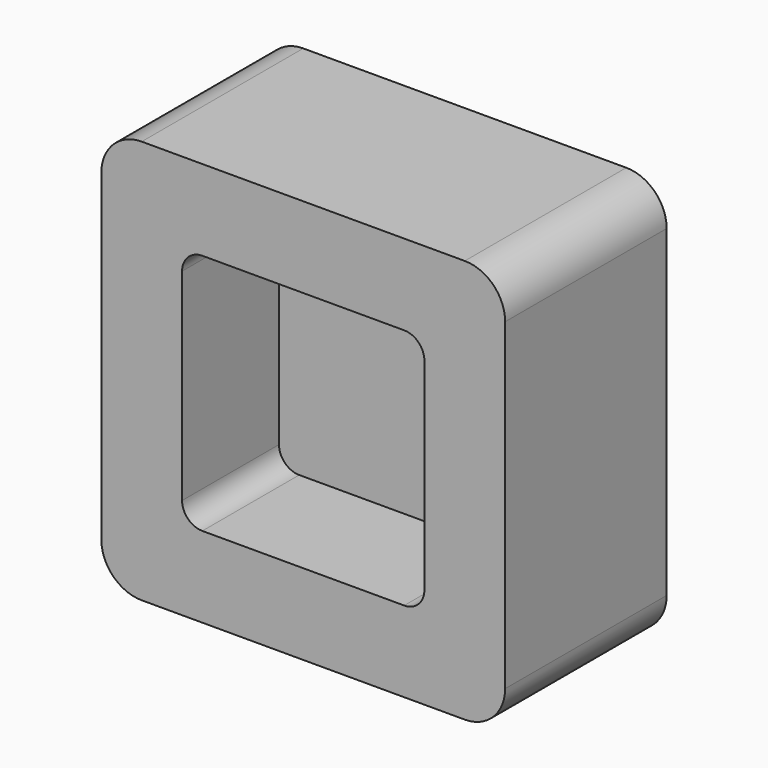
from build123d import *

# Parameters (mm, degrees)
F1_DEPTH = 12.7
F2_DEPTH = 31.75


with BuildPart() as f1:
    # F0 (on Front) → F1 (new body)
    with BuildSketch(Plane.XZ):
        with BuildLine():
            Line((-19.05, 15.875), (-19.05, -15.875))
            ThreePointArc((-19.05, -15.875), (-18.120064, -18.120064), (-15.875, -19.05))
            Line((-15.875, -19.05), (15.875, -19.05))
            ThreePointArc((15.875, -19.05), (18.120064, -18.120064), (19.05, -15.875))
            Line((19.05, -15.875), (19.05, 15.875))
            ThreePointArc((19.05, 15.875), (18.120064, 18.120064), (15.875, 19.05))
            Line((15.875, 19.05), (-15.875, 19.05))
            ThreePointArc((-15.875, 19.05), (-18.120064, 18.120064), (-19.05, 15.875))
        make_face()
    extrude(amount=F1_DEPTH)

    # F0 (on Front) → F2 (join)
    with BuildSketch(Plane.XZ):
        with BuildLine():
            Line((-25.4, -31.75), (25.4, -31.75))
            ThreePointArc((25.4, -31.75), (29.890128, -29.890128), (31.75, -25.4))
            Line((31.75, -25.4), (31.75, 25.4))
            ThreePointArc((31.75, 25.4), (29.890128, 29.890128), (25.4, 31.75))
            Line((25.4, 31.75), (-25.4, 31.75))
            ThreePointArc((-25.4, 31.75), (-29.890128, 29.890128), (-31.75, 25.4))
            Line((-31.75, 25.4), (-31.75, -25.4))
            ThreePointArc((-31.75, -25.4), (-29.890128, -29.890128), (-25.4, -31.75))
        make_face()
        with BuildLine():
            ThreePointArc((-15.875, -19.05), (-18.120064, -18.120064), (-19.05, -15.875))
            Line((-19.05, -15.875), (-19.05, 15.875))
            ThreePointArc((-19.05, 15.875), (-18.120064, 18.120064), (-15.875, 19.05))
            Line((-15.875, 19.05), (15.875, 19.05))
            ThreePointArc((15.875, 19.05), (18.120064, 18.120064), (19.05, 15.875))
            Line((19.05, 15.875), (19.05, -15.875))
            ThreePointArc((19.05, -15.875), (18.120064, -18.120064), (15.875, -19.05))
            Line((15.875, -19.05), (-15.875, -19.05))
        make_face(mode=Mode.SUBTRACT)
    extrude(amount=F2_DEPTH)


solid = f1.part
